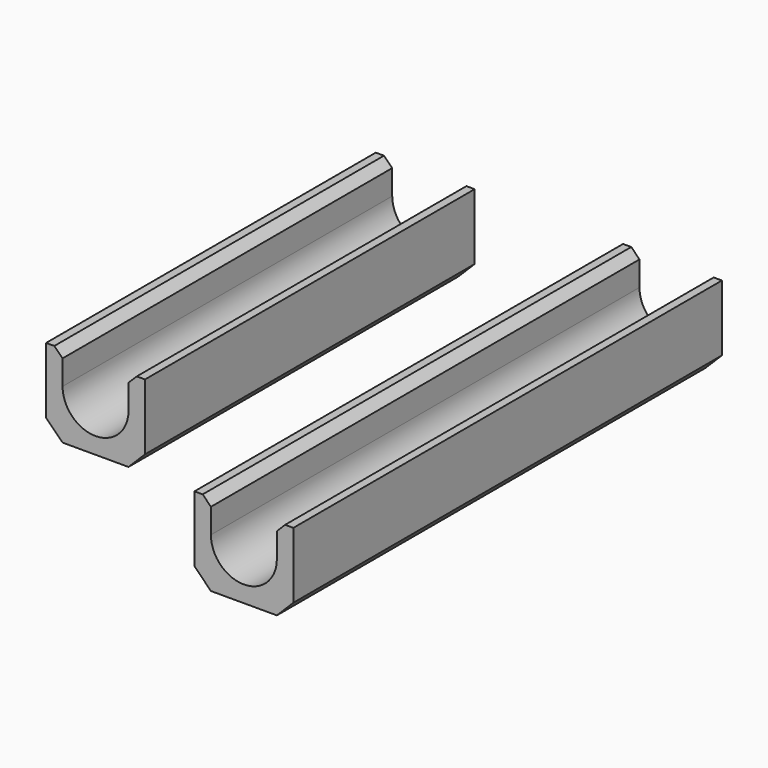
from build123d import *

# Parameters (mm, degrees)
F1_DEPTH = 50
F2_DEPTH = 4
F3_SIZE  = 1
F4_SIZE  = 2
F5_ANGLE = 90
F7_DEPTH = 15


with BuildPart() as f1:
    # F0 (on Top) → F1 (new body)
    with BuildSketch(Plane.XY):
        with BuildLine():
            Line((0, 6), (0, 0))
            Line((0, 0), (12, 0))
            Line((12, 0), (12, 6))
            Line((12, 6), (10, 6))
            ThreePointArc((10, 6), (6, 2), (2, 6))
            Line((2, 6), (0, 6))
        make_face()
    extrude(amount=F1_DEPTH)

    # F2 (add): faces of the model
    f2_faces = [f1.faces().sort_by_distance(p)[0] for p in [
        (1, 6, 25),
        (11, 6, 25),
    ]]
    extrude(f2_faces, amount=F2_DEPTH)

    # F3
    f3_edges = [f1.edges().sort_by_distance(p)[0] for p in [
        (2, 10, 25),
        (10, 10, 25),
    ]]
    chamfer(f3_edges, length=F3_SIZE)

    # F4
    f4_edges = [f1.edges().sort_by_distance(p)[0] for p in [
        (0, 0, 25),
        (12, 0, 25),
    ]]
    chamfer(f4_edges, length=F4_SIZE)


with BuildPart() as f1_1:
    # F5: moved
    add(f1.part.rotate(Axis((6, 0, 0), (1, 0, 0)), F5_ANGLE))


with BuildPart() as f6_1:
    # F6: copy of F1
    add(f1_1.part.moved(Location((30, 0, 0))))

    # F7 (add): a face of the model
    f7_faces = [f6_1.faces().sort_by_distance(p)[0] for p in [
        (41.8437950065, -50, 6),
    ]]
    extrude(f7_faces, amount=F7_DEPTH)


solid = Compound([f1_1.part, f6_1.part])
